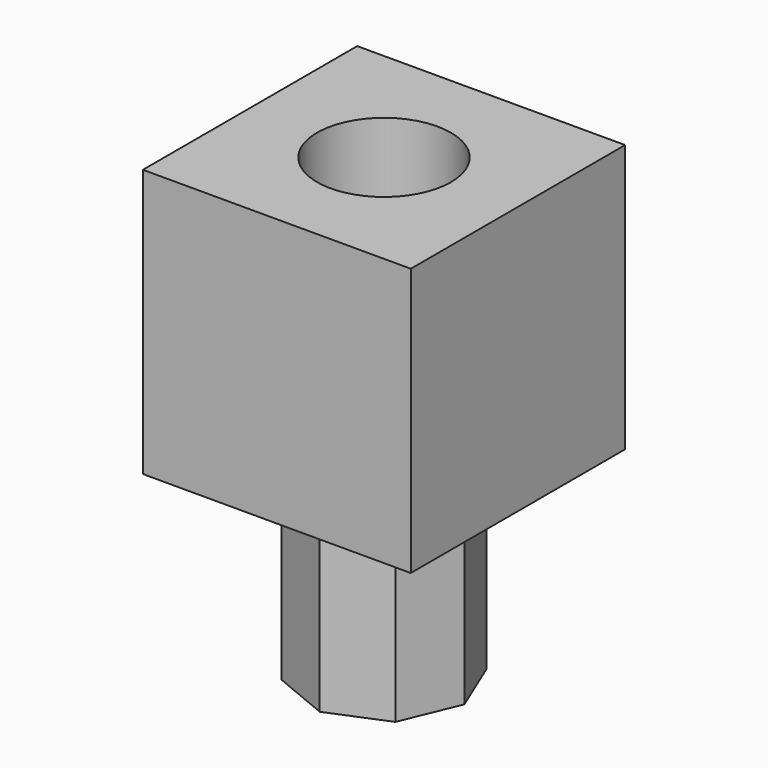
from build123d import *

# Parameters (mm, degrees)
F0_W     = 50
F0_H     = 50
F1_DEPTH = 50
F2_R     = 12.5
F3_DEPTH = 25
F5_DEPTH = 35


with BuildPart() as f1:
    # F0 (on Top) → F1 (new body)
    with BuildSketch(Plane.XY):
        Rectangle(F0_W, F0_H)
    extrude(amount=F1_DEPTH)

    # F2 (on face) → F3 (cut)
    with BuildSketch(Plane.XY.offset(50)):
        Circle(F2_R)
    extrude(amount=-F3_DEPTH, mode=Mode.SUBTRACT)

    # F4 (on face) → F5 (join)
    with BuildSketch(Plane(origin=(0, 0, 0), x_dir=(1, 0, 0), z_dir=(0, 0, -1))):
        Polygon((0, 15), (-10.606602, 10.606602), (-15, 0), (-10.606602, -10.606602), (0, -15), (10.606602, -10.606602), (15, 0), (10.606602, 10.606602), align=None)
    extrude(amount=F5_DEPTH)


solid = f1.part
